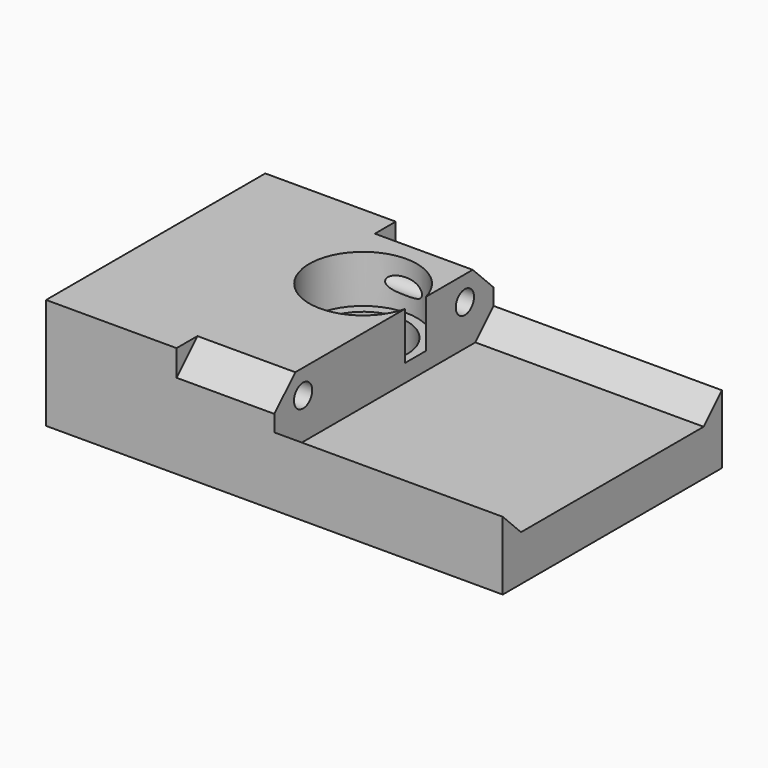
from build123d import *

# Parameters (mm, degrees)
BOX_W           = 70
BOX_H           = 42
BOX_DEPTH       = 17
SKETCH_R        = 1.75
POCKET_DEPTH    = 70.001
POCKET001_DEPTH = 50
POCKET002_DEPTH = 35
SKETCH003_R     = 6.75
POCKET003_DEPTH = 17.001
SKETCH004_R     = 8.25
POCKET004_DEPTH = 7.3
SKETCH005_R     = 8.25
POCKET005_DEPTH = 4.2


with BuildPart() as part:
    # Box → Box (new body)
    with BuildSketch(Plane.XY):
        with Locations((35, 21)):
            Rectangle(BOX_W, BOX_H)
    extrude(amount=BOX_DEPTH)

    # Sketch (on Face2 of BaseFeature) → Pocket (cut, through all)
    with BuildSketch(Plane.YZ.offset(70)):
        with Locations((5.5, 13.25)):
            Circle(SKETCH_R)
        with Locations((36.5, 13.25)):
            Circle(SKETCH_R)
    extrude(amount=-POCKET_DEPTH, mode=Mode.SUBTRACT)

    # Sketch001 (on Face2 of BaseFeature) → Pocket001 (cut)
    with BuildSketch(Plane.YZ.offset(70)):
        Polygon((4, 17), (0, 17), (0, 13), align=None)
        Polygon((38, 17), (42, 17), (42, 13), align=None)
    extrude(amount=-POCKET001_DEPTH, mode=Mode.SUBTRACT)

    # Sketch002 (on Face8 of Pocket001) → Pocket002 (cut)
    with BuildSketch(Plane.YZ.offset(70)):
        Polygon((4, 17), (0, 13), (0, 10.5), (3.5, 7), (38.5, 7), (42, 10.5), (42, 13), (38, 17), align=None)
    extrude(amount=-POCKET002_DEPTH, mode=Mode.SUBTRACT)

    # Sketch003 (on Face3 of Pocket002) → Pocket003 (cut, through all)
    with BuildSketch(Plane.XY.offset(17)):
        with Locations((27, 27)):
            Circle(SKETCH003_R)
    extrude(amount=-POCKET003_DEPTH, mode=Mode.SUBTRACT)

    # Sketch004 (on Face3 of Pocket003) → Pocket004 (cut)
    with BuildSketch(Plane.XY.offset(17)):
        with Locations((27, 27)):
            Circle(SKETCH004_R)
    extrude(amount=-POCKET004_DEPTH, mode=Mode.SUBTRACT)

    # Sketch005 (on Face4 of Pocket004) → Pocket005 (cut)
    with BuildSketch(Plane(origin=(0, 0, 0), x_dir=(1, 0, 0), z_dir=(0, 0, -1))):
        with Locations((27, -27)):
            Circle(SKETCH005_R)
    extrude(amount=-POCKET005_DEPTH, mode=Mode.SUBTRACT)


solid = part.part
